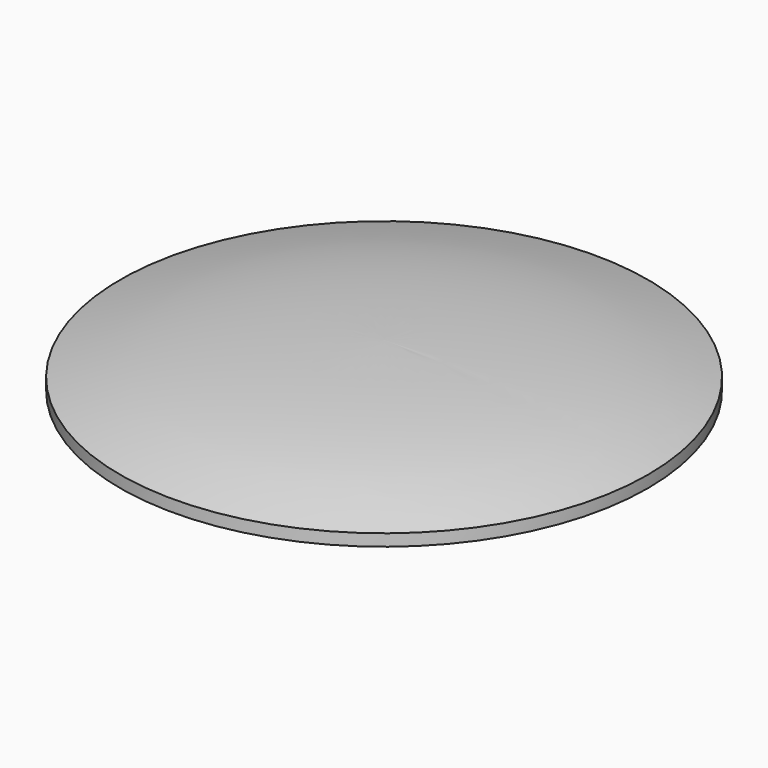
from build123d import *


with BuildPart() as f1:
    # F0 (on Front) → F1 (revolve)
    with BuildSketch(Plane.XZ):
        with BuildLine():
            Line((0, 0), (8.9, 0))
            Line((8.9, 0), (8.9, 0.4))
            add(Edge.make_bspline(
                [(0, 1.5), (5.112652, 1.451571), (6.925439, 0.93512), (8.9, 0.4)],
                knots=[0, 0, 0, 0, 8.96772, 8.96772, 8.96772, 8.96772], degree=3))
            Line((0, 1.5), (0, 0))
        make_face()
    revolve(axis=Axis((0, 0, 0.75), (0, 0, 1)))


solid = f1.part
